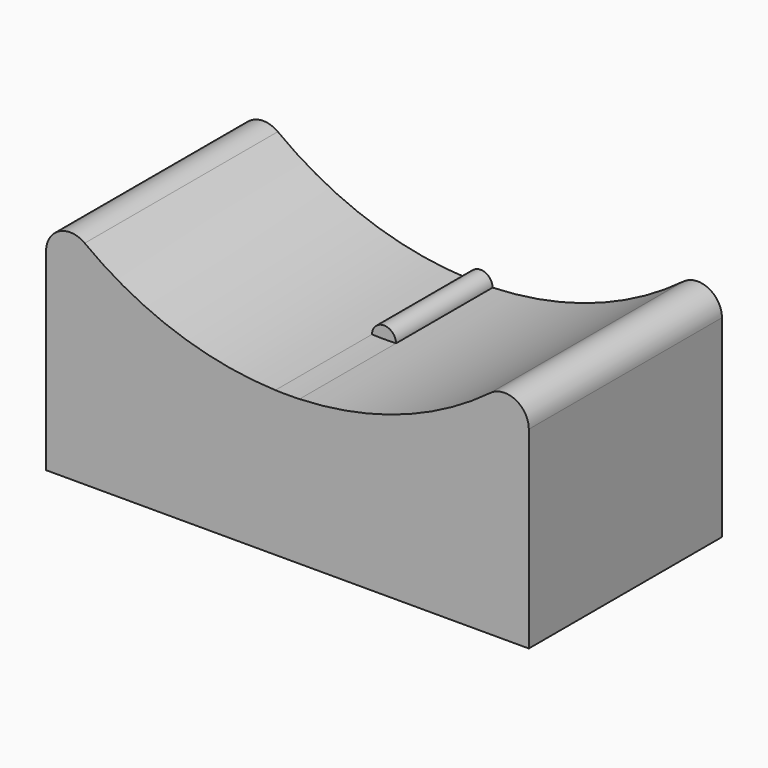
from build123d import *

# Parameters (mm, degrees)
F1_DEPTH = 20
F2_DEPTH = 10


with BuildPart() as f1:
    # F0 (on Front) → F1 (new body)
    with BuildSketch(Plane.XZ):
        with BuildLine():
            ThreePointArc((-0.9998405485, -27.9821428571), (-9.3273072538, -26.4007829314), (-16.8, -22.4))
            ThreePointArc((-16.8, -22.4), (-18.894427191, -22.211145618), (-20, -24))
            Line((-20, -24), (-20, -40))
            Line((-20, -40), (20, -40))
            Line((20, -40), (20, -24))
            ThreePointArc((20, -24), (18.894427191, -22.211145618), (16.8, -22.4))
            ThreePointArc((16.8, -22.4), (9.3273072538, -26.4007829314), (0.9998405485, -27.9821428571))
            ThreePointArc((0.9998405485, -27.9821428571), (0.9999601363, -27.9910710726), (1, -28))
            ThreePointArc((1, -28), (-0.0089289274, -28.9999601363), (-0.9998405485, -27.9821428571))
        make_face()
        with BuildLine():
            ThreePointArc((0.9998405485, -27.9821428571), (0, -28), (-0.9998405485, -27.9821428571))
            ThreePointArc((-0.9998405485, -27.9821428571), (-0.0089289274, -28.9999601363), (1, -28))
            ThreePointArc((1, -28), (0.9999601363, -27.9910710726), (0.9998405485, -27.9821428571))
        make_face()
    extrude(amount=F1_DEPTH)

    # F0 (on Front) → F2 (join)
    with BuildSketch(Plane.XZ):
        with BuildLine():
            ThreePointArc((-0.9998405485, -27.9821428571), (-9.3273072538, -26.4007829314), (-16.8, -22.4))
            ThreePointArc((-16.8, -22.4), (-18.894427191, -22.211145618), (-20, -24))
            Line((-20, -24), (-20, -40))
            Line((-20, -40), (20, -40))
            Line((20, -40), (20, -24))
            ThreePointArc((20, -24), (18.894427191, -22.211145618), (16.8, -22.4))
            ThreePointArc((16.8, -22.4), (9.3273072538, -26.4007829314), (0.9998405485, -27.9821428571))
            ThreePointArc((0.9998405485, -27.9821428571), (0.9999601363, -27.9910710726), (1, -28))
            ThreePointArc((1, -28), (-0.0089289274, -28.9999601363), (-0.9998405485, -27.9821428571))
        make_face()
        with BuildLine():
            ThreePointArc((0.9998405485, -27.9821428571), (0, -27), (-0.9998405485, -27.9821428571))
            ThreePointArc((-0.9998405485, -27.9821428571), (0, -28), (0.9998405485, -27.9821428571))
        make_face()
        with BuildLine():
            ThreePointArc((0.9998405485, -27.9821428571), (0, -28), (-0.9998405485, -27.9821428571))
            ThreePointArc((-0.9998405485, -27.9821428571), (-0.0089289274, -28.9999601363), (1, -28))
            ThreePointArc((1, -28), (0.9999601363, -27.9910710726), (0.9998405485, -27.9821428571))
        make_face()
    extrude(amount=F2_DEPTH)


solid = f1.part
